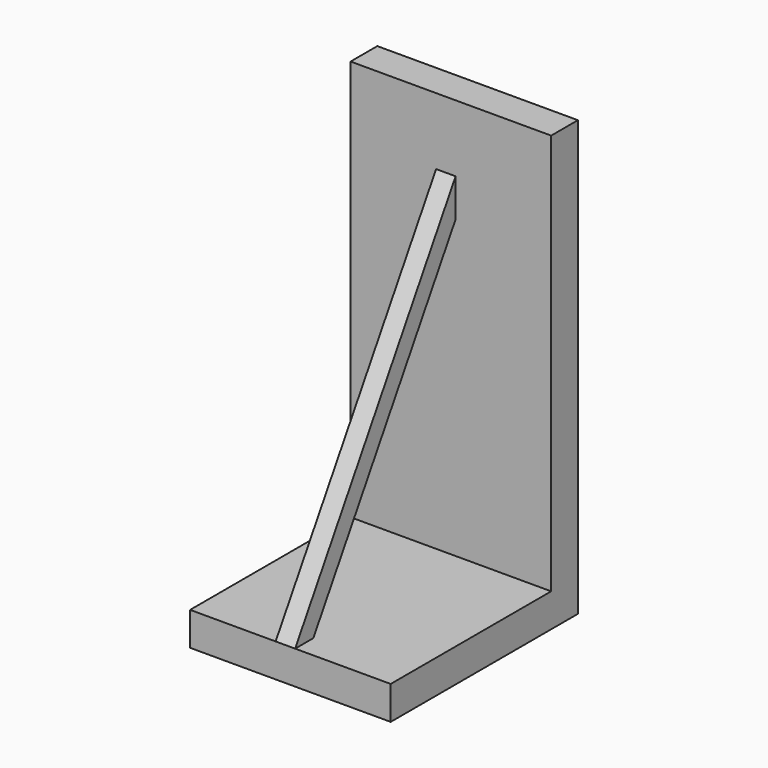
from build123d import *

# Parameters (mm, degrees)
F0_W     = 914.4
F0_H     = 1828.8
F1_DEPTH = 152.4
F2_W     = 914.4
F2_H     = 152.4
F2_H_2   = 914.4
F3_DEPTH = 152.4
F7_W     = 88.9
F7_H     = 1306.8192187859
F8_DEPTH = 88.9


with BuildPart() as f1:
    # F0 (on Front) → F1 (new body)
    with BuildSketch(Plane.XZ):
        with Locations((-457.2, 914.4)):
            Rectangle(F0_W, F0_H)
    extrude(amount=F1_DEPTH)

    # F2 (on Top) → F3 (join)
    with BuildSketch(Plane.XY):
        with Locations((-457.2, -76.2)):
            Rectangle(F2_W, F2_H)
        with Locations((-457.2, -609.6)):
            Rectangle(F2_W, F2_H_2)
    extrude(amount=-F3_DEPTH)

    # F7 (on 3pt) → F8 (join)
    with BuildSketch(Plane(origin=(0, -784.4117647059, 470.6470588235), x_dir=(-1, 0, 0), z_dir=(0, 0.8574929257, -0.5144957554))):
        Polygon((435.5678258105, -548.8640718901), (524.4678258105, -548.8640718901), (524.4678258105, -503.1253992326), (524.4678258105, -78.4091531272), (435.5678258105, -78.4091531272), (435.5678258105, -503.1253992326), align=None)
        with Locations((480.0178258105, 575.0004562658)):
            Rectangle(F7_W, F7_H)
    extrude(amount=F8_DEPTH)


solid = f1.part
